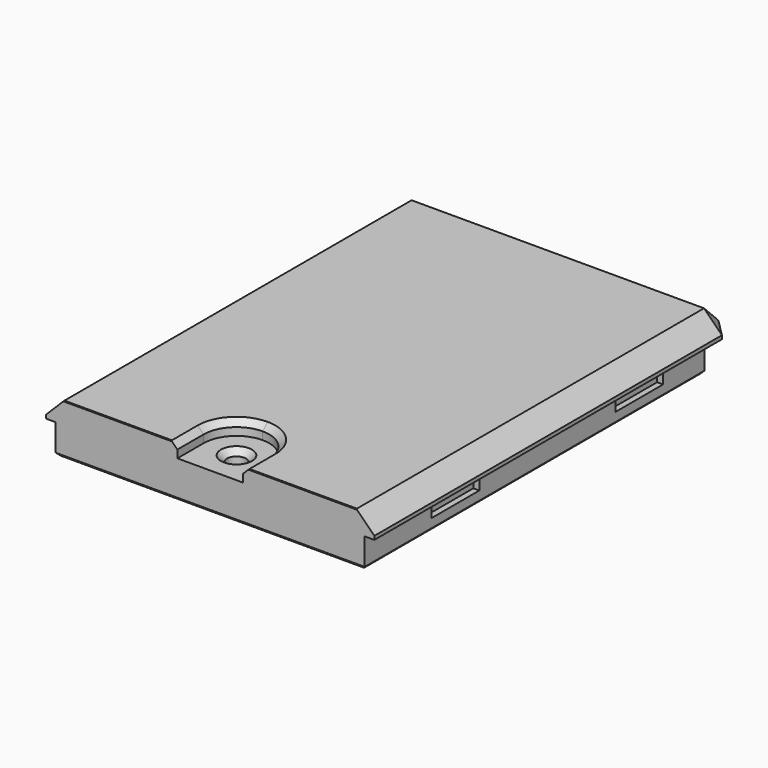
from build123d import *

# Parameters (mm, degrees)
SKETCH017_W     = 55
SKETCH017_H     = 75.8
PAD012_DEPTH    = 3.6
SKETCH018_W     = 51.76
SKETCH018_H     = 74.18
PAD013_DEPTH    = 5
POCKET004_DEPTH = 7
SKETCH019_R     = 2
PAD014_DEPTH    = 8
SKETCH020_W     = 10
SKETCH020_H     = 2.5
POCKET005_DEPTH = 1
SKETCH021_W     = 10
SKETCH021_H     = 2.5
POCKET006_DEPTH = 1
POCKET007_DEPTH = 2.3
SKETCH023_R     = 1.6
POCKET008_DEPTH = 7.301
CHAMFER010_SIZE = 5
CHAMFER011_SIZE = 2
CHAMFER012_SIZE = 1
CHAMFER013_SIZE = 3
CHAMFER014_SIZE = 0.5
CHAMFER015_SIZE = 1
CHAMFER016_SIZE = 3
CHAMFER017_SIZE = 0.1
CHAMFER018_SIZE = 1


with BuildPart() as part:
    # Sketch017 → Pad012 (new body)
    with BuildSketch(Plane(origin=(55, 28.2, 17.6), x_dir=(-1, 0, 0), z_dir=(0, 0, -1))):
        with Locations((27.5, 37.9)):
            Rectangle(SKETCH017_W, SKETCH017_H)
    extrude(amount=PAD012_DEPTH)

    # Sketch018 → Pad013 (new body)
    with BuildSketch(Plane(origin=(55, 28.2, 14), x_dir=(-1, 0, 0), z_dir=(0, 0, -1))):
        with Locations((27.5, 37.09)):
            Rectangle(SKETCH018_W, SKETCH018_H)
    extrude(amount=PAD013_DEPTH)

    # Sketch002 → Pocket004 (cut)
    with BuildSketch(Plane(origin=(55, 28.2, 9), x_dir=(-1, 0, 0), z_dir=(0, 0, -1))):
        Polygon((18.22, 1.6), (3.22, 1.6), (3.22, 72.58), (51.78, 72.58), (51.78, 1.6), (36.78, 1.6), (36.78, 14.1), (18.22, 14.1), align=None)
    extrude(amount=-POCKET004_DEPTH, mode=Mode.SUBTRACT)

    # Sketch019 → Pad014 (new body)
    with BuildSketch(Plane(origin=(55, 28.2, 16), x_dir=(-1, 0, 0), z_dir=(0, 0, -1))):
        with Locations((10.72, 52.58)):
            Circle(SKETCH019_R)
        with Locations((44.28, 52.58)):
            Circle(SKETCH019_R)
        with Locations((18.22, 18.6)):
            Circle(SKETCH019_R)
        with Locations((36.78, 18.6)):
            Circle(SKETCH019_R)
    extrude(amount=PAD014_DEPTH)

    # Sketch020 → Pocket005 (cut)
    with BuildSketch(Plane(origin=(1.62, 28.2, 17.6), x_dir=(0, 1, 0), z_dir=(-1, 0, 0))):
        with Locations((19, 5.35)):
            Rectangle(SKETCH020_W, SKETCH020_H)
        with Locations((57.5, 5.35)):
            Rectangle(SKETCH020_W, SKETCH020_H)
    extrude(amount=-POCKET005_DEPTH, mode=Mode.SUBTRACT)

    # Sketch021 → Pocket006 (cut)
    with BuildSketch(Plane(origin=(53.38, 28.2, 17.6), x_dir=(0, -1, 0), z_dir=(1, 0, 0))):
        with Locations((-57.5, 5.35)):
            Rectangle(SKETCH021_W, SKETCH021_H)
        with Locations((-19, 5.35)):
            Rectangle(SKETCH021_W, SKETCH021_H)
    extrude(amount=-POCKET006_DEPTH, mode=Mode.SUBTRACT)

    # Sketch022 → Pocket007 (cut)
    with BuildSketch(Plane(origin=(55, 28.2, 17.6), x_dir=(-1, 0, 0), z_dir=(0, 0, 1))):
        with BuildLine():
            Line((22, 0), (33, 0))
            Line((33, 0), (33, -5.500002))
            ThreePointArc((27.500001, -11), (31.389087, -9.389088), (33, -5.500002))
            Line((27.500001, -11), (27.499999, -11))
            ThreePointArc((22, -5.500002), (23.610913, -9.389088), (27.499999, -11))
            Line((22, -5.500002), (22, 0))
        make_face()
    extrude(amount=-POCKET007_DEPTH, mode=Mode.SUBTRACT)

    # Sketch023 → Pocket008 (cut, through all)
    with BuildSketch(Plane(origin=(55, 28.2, 15.3), x_dir=(-1, 0, 0), z_dir=(0, 0, 1))):
        with Locations((27.5, -5.5)):
            Circle(SKETCH023_R)
    extrude(amount=-POCKET008_DEPTH, mode=Mode.SUBTRACT)

    # Chamfer010
    chamfer010_edges = [part.edges().sort_by_distance(p)[0] for p in [
        (36.78, 42.3, 12.5),
        (18.22, 42.3, 12.5),
    ]]
    chamfer(chamfer010_edges, length=CHAMFER010_SIZE)

    # Chamfer011
    chamfer011_edges = [part.edges().sort_by_distance(p)[0] for p in [
        (51.78, 100.78, 12.5),
        (3.22, 100.78, 12.5),
    ]]
    chamfer(chamfer011_edges, length=CHAMFER011_SIZE)

    # Chamfer012
    chamfer012_edges = [part.edges().sort_by_distance(p)[0] for p in [
        (51.78, 64.29, 16),
        (50.78, 99.78, 16),
        (44.28, 29.8, 16),
        (27.5, 100.78, 16),
        (36.78, 33.55, 16),
        (4.22, 99.78, 16),
        (34.28, 39.8, 16),
        (3.22, 64.29, 16),
        (27.5, 42.3, 16),
        (10.72, 29.8, 16),
        (20.72, 39.8, 16),
        (18.22, 33.55, 16),
        (46.28, 80.78, 16),
        (38.78, 46.8, 16),
        (20.22, 46.8, 16),
        (12.72, 80.78, 16),
    ]]
    chamfer(chamfer012_edges, length=CHAMFER012_SIZE)

    # Chamfer013
    chamfer013_edges = [part.edges().sort_by_distance(p)[0] for p in [
        (1.62, 102.38, 11.5),
        (53.38, 102.38, 11.5),
    ]]
    chamfer(chamfer013_edges, length=CHAMFER013_SIZE)

    # Chamfer014
    chamfer014_edges = [part.edges().sort_by_distance(p)[0] for p in [
        (53.38, 63.79, 9),
        (51.88, 100.88, 9),
        (27.5, 28.2, 9),
        (27.5, 102.38, 9),
        (1.62, 63.79, 9),
        (3.12, 100.88, 9),
        (3.22, 64.29, 9),
        (4.22, 99.78, 9),
        (10.72, 29.8, 9),
        (27.5, 100.78, 9),
        (18.22, 33.55, 9),
        (50.78, 99.78, 9),
        (20.72, 39.8, 9),
        (51.78, 64.29, 9),
        (27.5, 42.3, 9),
        (44.28, 29.8, 9),
        (34.28, 39.8, 9),
        (36.78, 33.55, 9),
        (29.1, 33.7, 9),
    ]]
    chamfer(chamfer014_edges, length=CHAMFER014_SIZE)

    # Chamfer015
    chamfer015_edges = [part.edges().sort_by_distance(p)[0] for p in [
        (29.1, 33.7, 15.3),
    ]]
    chamfer(chamfer015_edges, length=CHAMFER015_SIZE)

    # Chamfer016
    chamfer016_edges = [part.edges().sort_by_distance(p)[0] for p in [
        (55, 104, 15.8),
        (0, 104, 15.8),
        (27.5, 104, 17.6),
        (0, 66.1, 17.6),
        (55, 66.1, 17.6),
    ]]
    chamfer(chamfer016_edges, length=CHAMFER016_SIZE)

    # Chamfer017
    chamfer017_edges = [part.edges().sort_by_distance(p)[0] for p in [
        (42.5, 28.2, 17.6),
        (12.5, 28.2, 17.6),
    ]]
    chamfer(chamfer017_edges, length=CHAMFER017_SIZE)

    # Chamfer018
    chamfer018_edges = [part.edges().sort_by_distance(p)[0] for p in [
        (31.389087, 37.589088, 17.6),
    ]]
    chamfer(chamfer018_edges, length=CHAMFER018_SIZE)


solid = part.part
